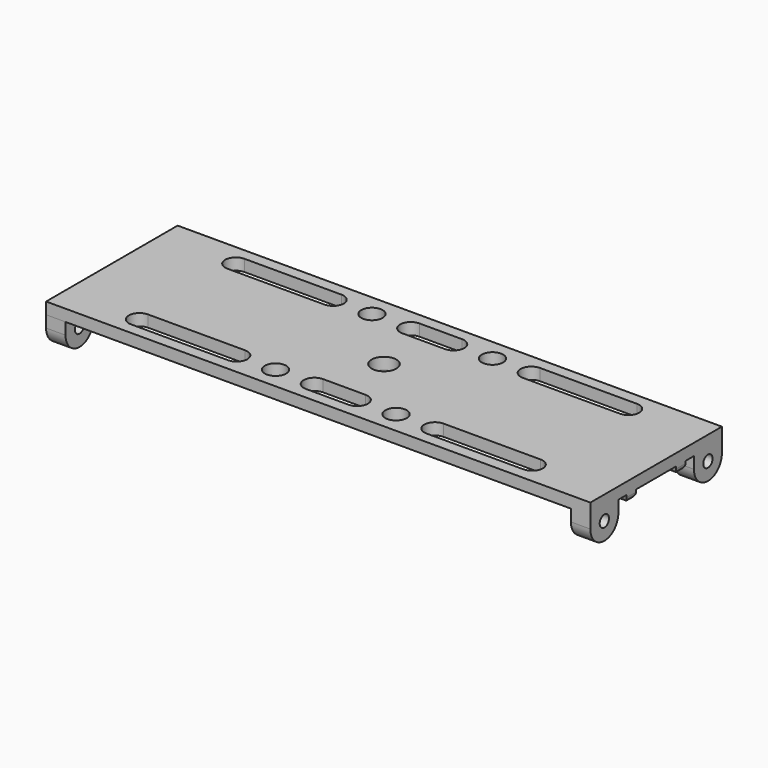
from build123d import *

# Parameters (mm, degrees)
SKETCH074_W     = 42.3
SKETCH074_H     = 3
SKETCH075_W     = 42.3
SKETCH075_H     = 3
SKETCH076_R     = 1.5
PAD030_DEPTH    = 5
SKETCH033_R     = 1.5000289281
SKETCH033_R_2   = 1.500028928
PAD031_DEPTH    = 5
SKETCH078_R     = 2.75
SKETCH078_R_2   = 3.175
POCKET020_DEPTH = 5
SKETCH084_W     = 140
SKETCH084_H     = 3.0000000001
SKETCH084_H_2   = 3
PAD034_DEPTH    = 2
FILLET005_R     = 1.4
SKETCH088_W     = 15.725
SKETCH088_H     = 15.725
SKETCH088_R     = 3.175
PAD036_DEPTH    = 2
FILLET006_R     = 1.3


with BuildPart() as part:
    # Sketch074 (on Face1 of Binder022) → AdditiveLoft005 section 0
    with BuildSketch(Plane.YZ.offset(-204)):
        with Locations((0, -67.2022145348)):
            Rectangle(SKETCH074_W, SKETCH074_H)
    # Sketch075 (on Face1 of Binder023) → AdditiveLoft005 section 1
    with BuildSketch(Plane(origin=(-64, 0, 0), x_dir=(0, -1, 0), z_dir=(-1, 0, 0))):
        with Locations((0, -67.2022145348)):
            Rectangle(SKETCH075_W, SKETCH075_H)
    loft()

    # Sketch076 (on Face1 of Binder023) → Pad030 (new body)
    with BuildSketch(Plane(origin=(-64, 0, 0), x_dir=(0, -1, 0), z_dir=(-1, 0, 0))):
        with BuildLine():
            Line((-12.15, -71.7022145347), (-12.15, -68.7022145348))
            Line((-12.15, -68.7022145348), (-21.15, -68.7022145348))
            Line((-21.15, -68.7022145348), (-21.15, -71.7022145347))
            ThreePointArc((-21.15, -71.7022145347), (-16.65, -76.2022145528), (-12.15, -71.7022145347))
        make_face()
        with Locations((-16.65, -71.7022145528)):
            Circle(SKETCH076_R, mode=Mode.SUBTRACT)
        with BuildLine():
            Line((12.15, -71.7022145347), (12.15, -68.7022145348))
            Line((12.15, -68.7022145348), (21.15, -68.7022145348))
            Line((21.15, -68.7022145348), (21.15, -71.7022145347))
            ThreePointArc((12.15, -71.7022145347), (16.65, -76.20221451), (21.15, -71.7022145347))
        make_face()
        with Locations((16.65, -71.70221451)):
            Circle(SKETCH076_R, mode=Mode.SUBTRACT)
    extrude(amount=PAD030_DEPTH)

    # Sketch033 (on Face1 of Binder022) → Pad031 (join)
    with BuildSketch(Plane.YZ.offset(-204)):
        with BuildLine():
            Line((-21.1499999998, -71.7022145347), (-21.15, -68.7022145348))
            Line((-21.15, -68.7022145348), (-12.15, -68.7022145348))
            Line((-12.15, -68.7022145348), (-12.1500000002, -71.7022145347))
            ThreePointArc((-21.1499999998, -71.7022145347), (-16.65, -76.2022525186), (-12.1500000002, -71.7022145347))
        make_face()
        with Locations((-16.65, -71.7022434628)):
            Circle(SKETCH033_R, mode=Mode.SUBTRACT)
        with BuildLine():
            Line((12.1500000002, -71.7022145347), (12.15, -68.7022145348))
            Line((12.15, -68.7022145348), (21.15, -68.7022145348))
            Line((21.15, -68.7022145348), (21.1499999998, -71.7022145347))
            ThreePointArc((12.1500000002, -71.7022145347), (16.65, -76.2022525185), (21.1499999998, -71.7022145347))
        make_face()
        with Locations((16.65, -71.7022434628)):
            Circle(SKETCH033_R_2, mode=Mode.SUBTRACT)
    extrude(amount=PAD031_DEPTH)

    # Sketch078 (on Face5 of Pad031) → Pocket020 (cut)
    with BuildSketch(Plane(origin=(0, 0, -68.7022145348), x_dir=(1, 0, 0), z_dir=(0, 0, -1))):
        with Locations((-149.5, 15.5)):
            Circle(SKETCH078_R)
        with Locations((-118.5, 15.5)):
            Circle(SKETCH078_R)
        with Locations((-118.5, -15.5)):
            Circle(SKETCH078_R)
        with Locations((-149.5, -15.5)):
            Circle(SKETCH078_R)
        with Locations((-134, 0)):
            Circle(SKETCH078_R_2)
        with BuildLine():
            ThreePointArc((-159.5, 12.75), (-156.75, 15.5), (-159.5, 18.25))
            Line((-159.5, 18.25), (-184.5, 18.25))
            ThreePointArc((-184.5, 18.25), (-187.25, 15.5), (-184.5, 12.75))
            Line((-184.5, 12.75), (-159.5, 12.75))
        make_face()
        with BuildLine():
            ThreePointArc((-159.5, -18.25), (-156.75, -15.5), (-159.5, -12.75))
            Line((-159.5, -12.75), (-184.5, -12.75))
            ThreePointArc((-184.5, -12.75), (-187.25, -15.5), (-184.5, -18.25))
            Line((-184.5, -18.25), (-159.5, -18.25))
        make_face()
        with BuildLine():
            ThreePointArc((-108.5, -12.75), (-111.25, -15.5), (-108.5, -18.25))
            Line((-108.5, -18.25), (-83.5, -18.25))
            ThreePointArc((-83.5, -18.25), (-80.75, -15.5), (-83.5, -12.75))
            Line((-83.5, -12.75), (-108.5, -12.75))
        make_face()
        with BuildLine():
            ThreePointArc((-108.5, 18.25), (-111.25, 15.5), (-108.5, 12.75))
            Line((-108.5, 12.75), (-83.5, 12.75))
            ThreePointArc((-83.5, 12.75), (-80.75, 15.5), (-83.5, 18.25))
            Line((-83.5, 18.25), (-108.5, 18.25))
        make_face()
        with BuildLine():
            ThreePointArc((-128.5, 12.75), (-125.75, 15.5), (-128.5, 18.25))
            Line((-128.5, 18.25), (-139.5, 18.25))
            ThreePointArc((-139.5, 18.25), (-142.25, 15.5), (-139.5, 12.75))
            Line((-139.5, 12.75), (-128.5, 12.75))
        make_face()
        with BuildLine():
            ThreePointArc((-139.5, -12.75), (-142.25, -15.5), (-139.5, -18.25))
            Line((-139.5, -18.25), (-128.5, -18.25))
            ThreePointArc((-128.5, -18.25), (-125.75, -15.5), (-128.5, -12.75))
            Line((-128.5, -12.75), (-139.5, -12.75))
        make_face()
    extrude(amount=-POCKET020_DEPTH, mode=Mode.SUBTRACT)

    # Sketch084 (on Face5 of Pocket020) → Pad034 (join)
    with BuildSketch(Plane(origin=(0, 0, -68.7022145348), x_dir=(1, 0, 0), z_dir=(0, 0, -1))):
        with Locations((-134, 7.9625)):
            Rectangle(SKETCH084_W, SKETCH084_H)
        with Locations((-134, -7.9625)):
            Rectangle(SKETCH084_W, SKETCH084_H_2)
    extrude(amount=PAD034_DEPTH)

    # Fillet005
    fillet005_edges = [part.edges().sort_by_distance(p)[0] for p in [
        (-134, -9.4625, -70.702215),
        (-64, -7.9625, -70.702215),
        (-134, -6.4625, -70.702215),
        (-204, -7.9625, -70.702215),
        (-134, 6.4625, -70.702215),
        (-204, 7.9625, -70.702215),
        (-134, 9.4625, -70.702215),
        (-64, 7.9625, -70.702215),
    ]]
    fillet(fillet005_edges, radius=FILLET005_R)

    # Sketch088 (on Face8 of Fillet005) → Pad036 (join)
    with BuildSketch(Plane(origin=(0, 0, -68.7022145348), x_dir=(1, 0, 0), z_dir=(0, 0, -1))):
        with Locations((-134, 0)):
            Rectangle(SKETCH088_W, SKETCH088_H)
        with Locations((-134, 0)):
            Circle(SKETCH088_R, mode=Mode.SUBTRACT)
    extrude(amount=PAD036_DEPTH)

    # Fillet006
    fillet006_edges = [part.edges().sort_by_distance(p)[0] for p in [
        (-126.1375, 0, -70.702215),
        (-141.8625, 0, -70.702215),
    ]]
    fillet(fillet006_edges, radius=FILLET006_R)


solid = part.part
